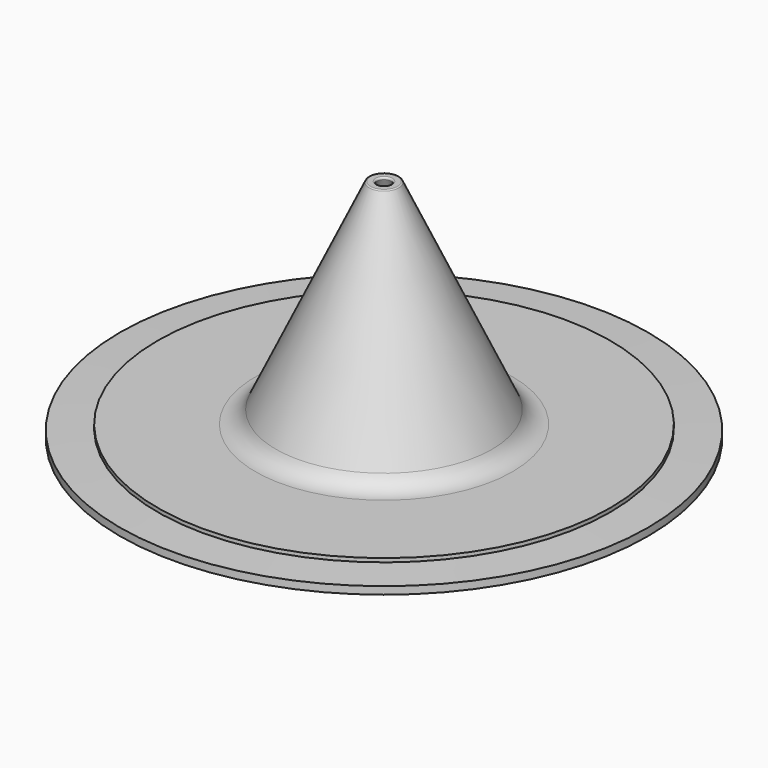
from build123d import *

# Parameters (mm, degrees)
F2_R = 3


with BuildPart() as f1:
    # F0 (on Front) → F1 (revolve)
    with BuildSketch(Plane.XZ):
        with BuildLine():
            ThreePointArc((14.674281, 0.288557), (14.858785, 0.078265), (15.127373, 0))
            Line((15.127373, 0), (35, 0))
            Line((35, 0), (35, 1))
            Line((35, 1), (30, 1.173134))
            Line((30, 1.173134), (30, 1.673134))
            Line((30, 1.673134), (15.131675, 1.673134))
            Line((15.131675, 1.673134), (1.966335, 29.884577))
            ThreePointArc((1.966335, 29.884577), (1.892533, 29.968694), (1.785098, 30))
            Line((1.785098, 30), (1.12298, 30))
            ThreePointArc((1.12298, 30), (0.954286, 29.907435), (0.941744, 29.715423))
            Line((0.941744, 29.715423), (14.674281, 0.288557))
        make_face()
    revolve(axis=Axis((0, 0, 16.256472), (0, 0, 1)))

    # F2
    f2_edges = [f1.edges().sort_by_distance(p)[0] for p in [
        (-15.131675, 0, 1.673134),
    ]]
    fillet(f2_edges, radius=F2_R)


solid = f1.part
